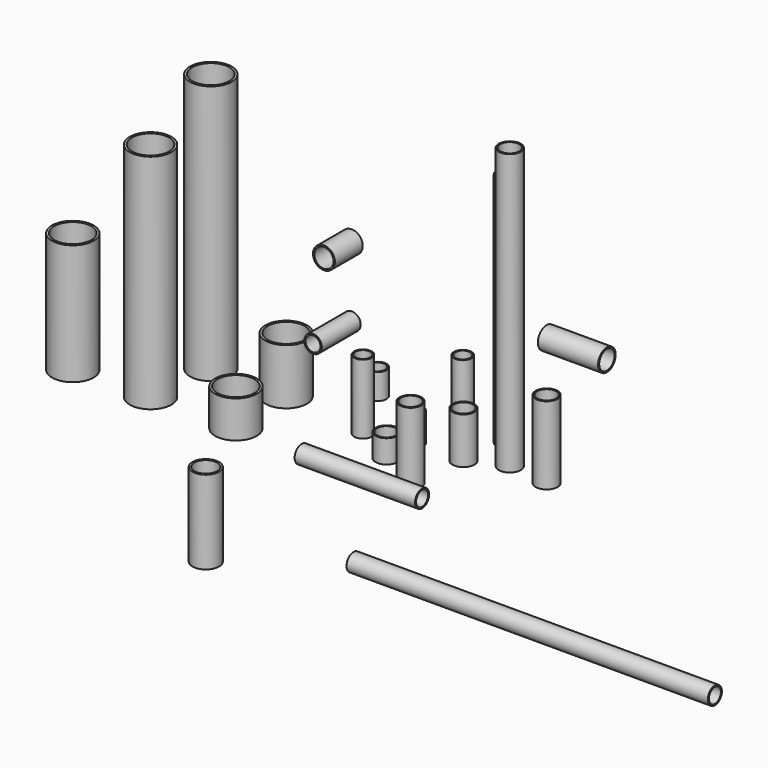
from build123d import *

# Parameters (mm, degrees)
F0_R      = 30.1625
F0_R_2    = 26.2509
F1_DEPTH  = 76.2
F2_R      = 30.1625
F2_R_2    = 26.2509
F3_DEPTH  = 127
F4_R      = 30.1625
F4_R_2    = 26.2509
F5_DEPTH  = 768.35
F6_R      = 30.1625
F6_R_2    = 26.2509
F7_DEPTH  = 165.1
F9_R      = 24.13
F9_R_2    = 20.447
F10_DEPTH = 133.35
F11_R     = 24.13
F11_R_2   = 20.447
F12_DEPTH = 330.2
F13_R     = 24.13
F13_R_2   = 20.447
F14_DEPTH = 127
F15_R     = 24.13
F15_R_2   = 20.447
F16_DEPTH = 990.6
F8_R      = 24.13
F8_R_2    = 20.447
F17_DEPTH = 69.85
F18_R     = 24.13
F18_R_2   = 20.447
F19_DEPTH = 190.5
F20_R     = 30.1625
F20_R_2   = 26.2509
F21_DEPTH = 647.7
F22_R     = 57.15
F22_R_2   = 51.1302
F23_DEPTH = 152.4
F24_R     = 57.15
F24_R_2   = 51.1302
F25_DEPTH = 711.2
F26_R     = 57.15
F26_R_2   = 51.1302
F27_DEPTH = 101.6
F28_R     = 57.15
F28_R_2   = 51.1302
F29_DEPTH = 609.6
F30_R     = 57.15
F30_R_2   = 51.1302
F31_DEPTH = 330.2
F32_R     = 30.1625
F32_R_2   = 26.2509
F33_DEPTH = 212.725
F34_R     = 30.1625
F34_R_2   = 26.2509
F35_DEPTH = 95.25
F36_R     = 30.1625
F36_R_2   = 26.2509
F37_DEPTH = 63.5
F38_R     = 30.1625
F38_R_2   = 26.2509
F39_DEPTH = 196.85
F40_R     = 36.5125
F40_R_2   = 31.3563
F41_DEPTH = 228.6


with BuildPart() as f1:
    # F0 (on Top) → F1 (new body)
    with BuildSketch(Plane.XY):
        Circle(F0_R)
        Circle(F0_R_2, mode=Mode.SUBTRACT)
    extrude(amount=F1_DEPTH)


with BuildPart() as f3:
    # F2 (on Top) → F3 (new body)
    with BuildSketch(Plane.XY):
        with Locations((138.302788, 3.337055)):
            Circle(F2_R)
        with Locations((138.302788, 3.337055)):
            Circle(F2_R_2, mode=Mode.SUBTRACT)
    extrude(amount=F3_DEPTH)


with BuildPart() as f5:
    # F4 (on Top) → F5 (new body)
    with BuildSketch(Plane.XY):
        with Locations((231.521279, 45.508832)):
            Circle(F4_R)
        with Locations((231.521279, 45.508832)):
            Circle(F4_R_2, mode=Mode.SUBTRACT)
    extrude(amount=F5_DEPTH)


with BuildPart() as f7:
    # F6 (on Right) → F7 (new body)
    with BuildSketch(Plane.YZ):
        with Locations((461.282372, 65.946572)):
            Circle(F6_R)
        with Locations((461.282372, 65.946572)):
            Circle(F6_R_2, mode=Mode.SUBTRACT)
    extrude(amount=F7_DEPTH)


with BuildPart() as f10:
    # F9 (on Front) → F10 (new body)
    with BuildSketch(Plane.XZ):
        with Locations((-164.867118, 238.91741)):
            Circle(F9_R)
        with Locations((-164.867118, 238.91741)):
            Circle(F9_R_2, mode=Mode.SUBTRACT)
    extrude(amount=F10_DEPTH)


with BuildPart() as f12:
    # F11 (on Right) → F12 (new body)
    with BuildSketch(Plane.YZ):
        with Locations((-378.266752, 126.429081)):
            Circle(F11_R)
        with Locations((-378.266752, 126.429081)):
            Circle(F11_R_2, mode=Mode.SUBTRACT)
    extrude(amount=F12_DEPTH)


with BuildPart() as f14:
    # F13 (on Top) → F14 (new body)
    with BuildSketch(Plane.XY):
        with Locations((-16.244315, 194.119215)):
            Circle(F13_R)
        with Locations((-16.244315, 194.119215)):
            Circle(F13_R_2, mode=Mode.SUBTRACT)
    extrude(amount=F14_DEPTH)


with BuildPart() as f16:
    # F15 (on Right) → F16 (new body)
    with BuildSketch(Plane.YZ):
        with Locations((-200.426787, -206.58578)):
            Circle(F15_R)
        with Locations((-200.426787, -206.58578)):
            Circle(F15_R_2, mode=Mode.SUBTRACT)
    extrude(amount=F16_DEPTH)


with BuildPart() as f17:
    # F8 (on Top) → F17 (new body)
    with BuildSketch(Plane.XY):
        with Locations((-192.606151, 123.010293)):
            Circle(F8_R)
        with Locations((-192.606151, 123.010293)):
            Circle(F8_R_2, mode=Mode.SUBTRACT)
    extrude(amount=F17_DEPTH)


with BuildPart() as f19:
    # F18 (on Top) → F19 (new body)
    with BuildSketch(Plane.XY):
        with Locations((-108.415857, -32.846145)):
            Circle(F18_R)
        with Locations((-108.415857, -32.846145)):
            Circle(F18_R_2, mode=Mode.SUBTRACT)
    extrude(amount=F19_DEPTH)


with BuildPart() as f21:
    # F20 (on Top) → F21 (new body)
    with BuildSketch(Plane.XY):
        with Locations((160.847157, 127.180696)):
            Circle(F20_R)
        with Locations((160.847157, 127.180696)):
            Circle(F20_R_2, mode=Mode.SUBTRACT)
    extrude(amount=F21_DEPTH)


with BuildPart() as f23:
    # F22 (on Top) → F23 (new body)
    with BuildSketch(Plane.XY):
        with Locations((-345.002521, 0)):
            Circle(F22_R)
        with Locations((-345.002521, 0)):
            Circle(F22_R_2, mode=Mode.SUBTRACT)
    extrude(amount=F23_DEPTH)


with BuildPart() as f25:
    # F24 (on Top) → F25 (new body)
    with BuildSketch(Plane.XY):
        with Locations((-549.983025, -2.168208)):
            Circle(F24_R)
        with Locations((-549.983025, -2.168208)):
            Circle(F24_R_2, mode=Mode.SUBTRACT)
    extrude(amount=F25_DEPTH)


with BuildPart() as f27:
    # F26 (on Top) → F27 (new body)
    with BuildSketch(Plane.XY):
        with Locations((-335.899681, -183.697537)):
            Circle(F26_R)
        with Locations((-335.899681, -183.697537)):
            Circle(F26_R_2, mode=Mode.SUBTRACT)
    extrude(amount=F27_DEPTH)


with BuildPart() as f29:
    # F28 (on Top) → F29 (new body)
    with BuildSketch(Plane.XY):
        with Locations((-568.967402, -184.865579)):
            Circle(F28_R)
        with Locations((-568.967402, -184.865579)):
            Circle(F28_R_2, mode=Mode.SUBTRACT)
    extrude(amount=F29_DEPTH)


with BuildPart() as f31:
    # F30 (on Top) → F31 (new body)
    with BuildSketch(Plane.XY):
        with Locations((-777.619898, -190.681145)):
            Circle(F30_R)
        with Locations((-777.619898, -190.681145)):
            Circle(F30_R_2, mode=Mode.SUBTRACT)
    extrude(amount=F31_DEPTH)


with BuildPart() as f33:
    # F32 (on Top) → F33 (new body)
    with BuildSketch(Plane.XY):
        with Locations((342.100918, 33.526931)):
            Circle(F32_R)
        with Locations((342.100918, 33.526931)):
            Circle(F32_R_2, mode=Mode.SUBTRACT)
    extrude(amount=F33_DEPTH)


with BuildPart() as f35:
    # F34 (on Front) → F35 (new body)
    with BuildSketch(Plane.XZ):
        with Locations((-165.353522, 430.808783)):
            Circle(F34_R)
        with Locations((-165.353522, 430.808783)):
            Circle(F34_R_2, mode=Mode.SUBTRACT)
    extrude(amount=F35_DEPTH)


with BuildPart() as f37:
    # F36 (on Top) → F37 (new body)
    with BuildSketch(Plane.XY):
        with Locations((2.352648, -90.323612)):
            Circle(F36_R)
        with Locations((2.352648, -90.323612)):
            Circle(F36_R_2, mode=Mode.SUBTRACT)
    extrude(amount=F37_DEPTH)


with BuildPart() as f39:
    # F38 (on Top) → F39 (new body)
    with BuildSketch(Plane.XY):
        with Locations((114.337787, -147.962674)):
            Circle(F38_R)
        with Locations((114.337787, -147.962674)):
            Circle(F38_R_2, mode=Mode.SUBTRACT)
    extrude(amount=F39_DEPTH)


with BuildPart() as f41:
    # F40 (on Top) → F41 (new body)
    with BuildSketch(Plane.XY):
        with Locations((0, -706.882016)):
            Circle(F40_R)
        with Locations((0, -706.882016)):
            Circle(F40_R_2, mode=Mode.SUBTRACT)
    extrude(amount=F41_DEPTH)


solid = Compound([f1.part, f3.part, f5.part, f7.part, f10.part, f12.part, f14.part, f16.part, f17.part, f19.part, f21.part, f23.part, f25.part, f27.part, f29.part, f31.part, f33.part, f35.part, f37.part, f39.part, f41.part])
